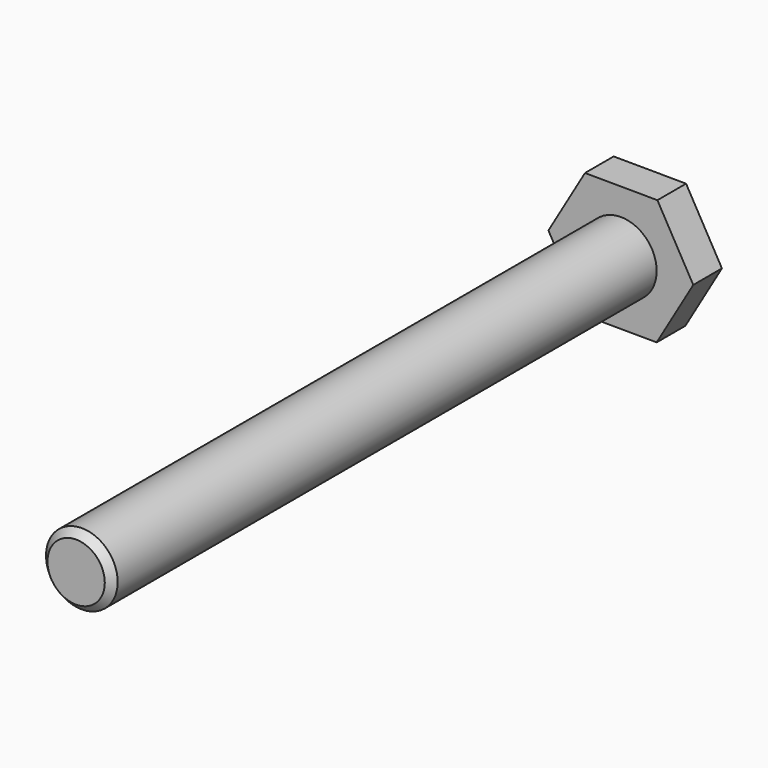
from build123d import *

# Parameters (mm, degrees)
F1_DEPTH = 6.35
F2_R     = 6.35
F3_DEPTH = 127
F4_SIZE  = 1.27


with BuildPart() as f1:
    # F0 (on Front) → F1 (new body)
    with BuildSketch(Plane.XZ):
        Polygon((6.351873, -11.149167), (12.831398, -0.0737), (6.479525, 11.075467), (-6.351873, 11.149167), (-12.831398, 0.0737), (-6.479525, -11.075467), align=None)
    extrude(amount=F1_DEPTH)

    # F2 (on Front) → F3 (join)
    with BuildSketch(Plane.XZ):
        Circle(F2_R)
    extrude(amount=F3_DEPTH)

    # F4
    f4_edges = [f1.edges().sort_by_distance(p)[0] for p in [
        (-6.35, -127, 0),
    ]]
    chamfer(f4_edges, length=F4_SIZE)


solid = f1.part
